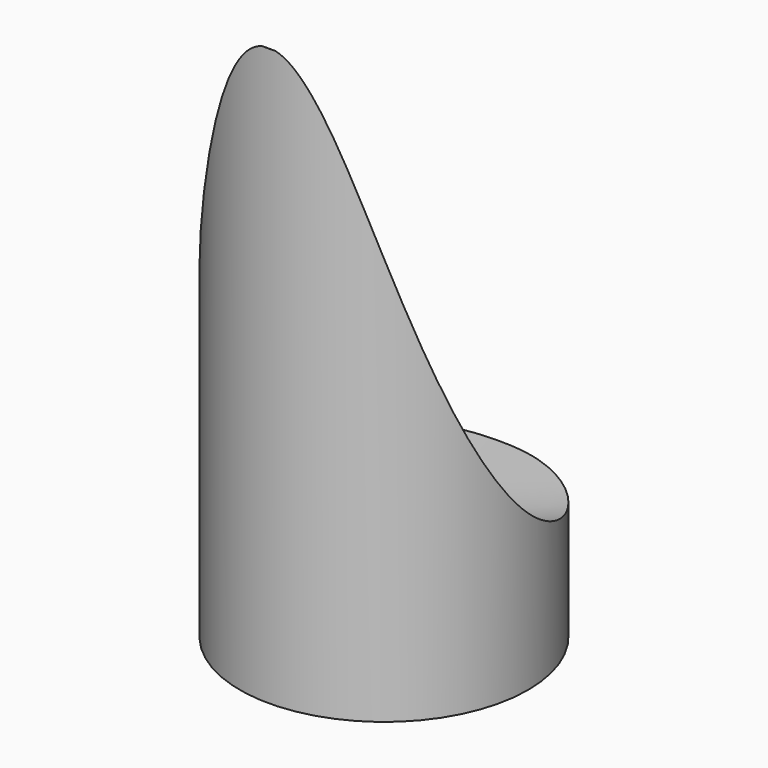
from build123d import *

# Parameters (mm, degrees)
F0_R     = 50
F1_DEPTH = 200


with BuildPart() as f1:
    # F0 (on Top) → F1 (new body)
    with BuildSketch(Plane.XY):
        Circle(F0_R)
    extrude(amount=F1_DEPTH)

    # F2 (on Right) → F3 (revolve, cut)
    with BuildSketch(Plane.YZ):
        with BuildLine():
            add(Edge.make_bspline(
                [(57.3730580509, 39.1560643911), (15.9136988223, 41.2499718368), (-34.9688376544, 31.8422567215), (-45.2248112338, 145.9973593334), (-50.6725534797, 207.9249918461)],
                knots=[0, 0, 0, 0, 0.4141487739, 1, 1, 1, 1], degree=3))
            Line((57.3730580509, 39.1560643911), (57.3730580509, 217.5569534302))
            Line((57.3730580509, 217.5569534302), (-50.6725534797, 207.9249918461))
        make_face()
    revolve(axis=Axis((0, 57.3730580509, 128.3565089107), (0, 0, 1)), mode=Mode.SUBTRACT)


solid = f1.part
